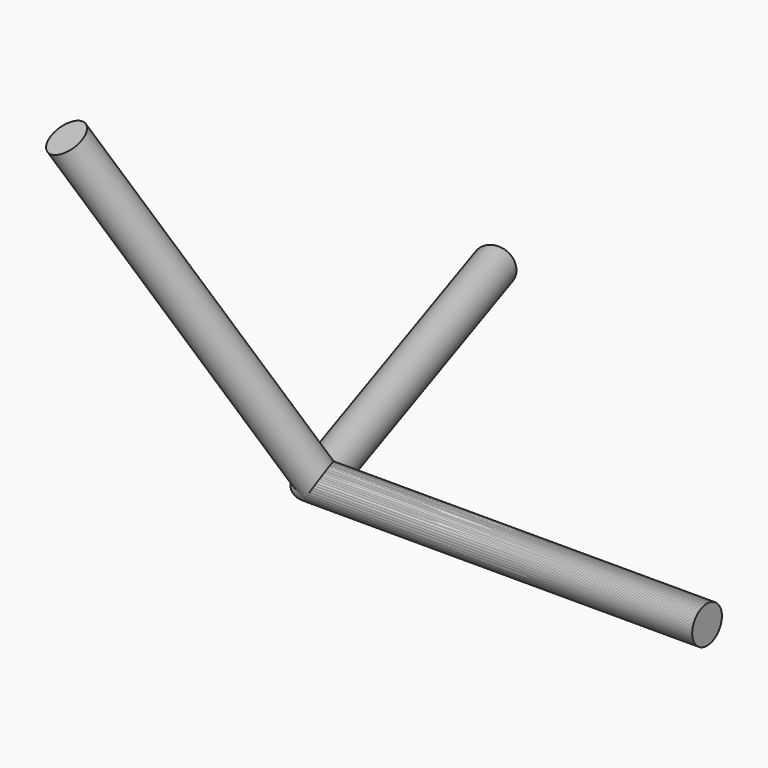
from build123d import *

# Parameters (mm, degrees)
F2_R     = 0.8746117683
F4_ANGLE = -116.56


with BuildPart() as f3:
    # F3: sweep along a path in F0
    with BuildLine(Plane.XY) as f3_path:
        Line((9.1386618222, -12.5782889093), (-9.1386618222, -12.5782889093))
        Line((-9.1386618222, -12.5782889093), (-14.78666544, 4.804478843))
    # F2 (on line) → F3 (sweep)
    with BuildSketch(Plane.YZ.offset(9.1386618222)):
        with Locations((-12.5782889093, 0)):
            Circle(F2_R)
    sweep(path=f3_path.line, transition=Transition.RIGHT)


with BuildPart() as f4_1:
    # F4: copy of F3
    add(f3.part.rotate(Axis((9.1386618222, -12.5782889093, 0), (-1, 0, 0)), F4_ANGLE))


solid = Compound([f3.part, f4_1.part])
